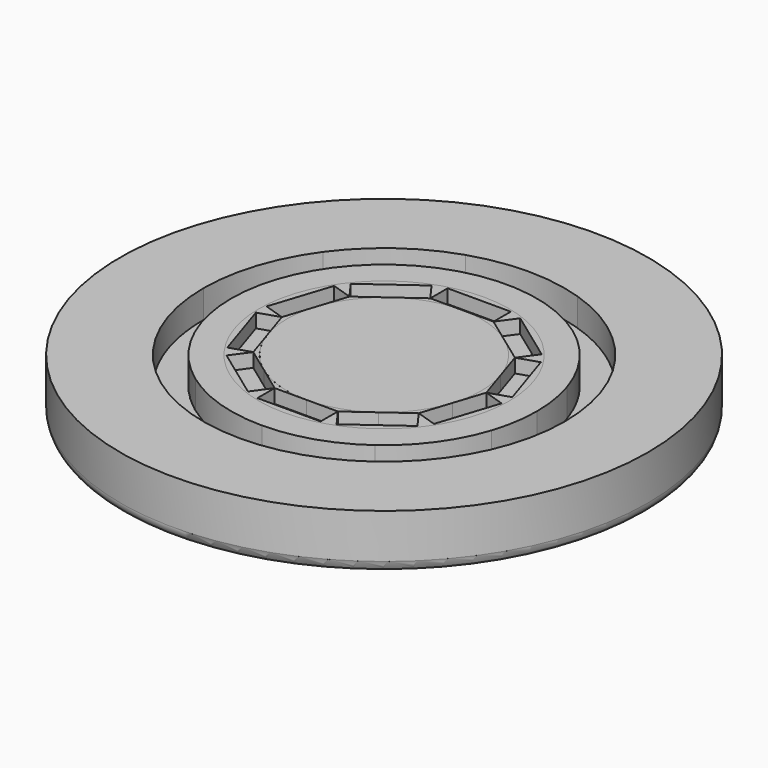
from build123d import *

# Parameters (mm, degrees)
F0_R     = 120.65
F1_DEPTH = 25.4
F2_R     = 82.55
F2_R_2   = 69.85
F3_DEPTH = 12.7
F2_R_3   = 57.15
F2_R_4   = 44.45
F4_DEPTH = 19.05
F5_R     = 5.08
F6_DEPTH = 25.4


with BuildPart() as f1:
    # F0 (on Top) → F1 (new body)
    with BuildSketch(Plane.XY):
        Circle(F0_R)
        with BuildLine():
            ThreePointArc((25.5093528857, -78.5097154202), (0, -82.55), (-25.5093528857, -78.5097154202))
            ThreePointArc((-25.5093528857, -78.5097154202), (-48.5216725767, -66.7843528857), (-66.7843528857, -48.5216725767))
            ThreePointArc((-66.7843528857, -48.5216725767), (-78.5097154202, -25.5093528857), (-82.55, 0))
            ThreePointArc((-82.55, 0), (-78.5097154202, 25.5093528857), (-66.7843528857, 48.5216725767))
            ThreePointArc((-66.7843528857, 48.5216725767), (-48.5216725767, 66.7843528857), (-25.5093528857, 78.5097154202))
            ThreePointArc((-25.5093528857, 78.5097154202), (0, 82.55), (25.5093528857, 78.5097154202))
            ThreePointArc((25.5093528857, 78.5097154202), (48.5216725767, 66.7843528857), (66.7843528857, 48.5216725767))
            ThreePointArc((66.7843528857, 48.5216725767), (78.5097154202, 25.5093528857), (82.55, 0))
            ThreePointArc((82.55, 0), (78.5097154202, -25.5093528857), (66.7843528857, -48.5216725767))
            ThreePointArc((66.7843528857, -48.5216725767), (48.5216725767, -66.7843528857), (25.5093528857, -78.5097154202))
        make_face(mode=Mode.SUBTRACT)
    extrude(amount=F1_DEPTH)

    # F5
    f5_edges = [f1.edges().sort_by_distance(p)[0] for p in [
        (-120.65, 0, 0),
    ]]
    fillet(f5_edges, radius=F5_R)


with BuildPart() as f1b:
    # F0 (on Top) → F1, piece 2 (new body)
    with BuildSketch(Plane.XY):
        with BuildLine():
            ThreePointArc((66.4312976021, -21.5848372453), (68.9900305751, -10.9269474808), (69.85, 0))
            ThreePointArc((69.85, 0), (68.9900306537, 10.9269469846), (66.4312979125, 21.5848362898))
            ThreePointArc((66.4312979125, 21.5848362898), (56.509837448, 41.0567993346), (41.056800296, 56.5098367495))
            ThreePointArc((41.056800296, 56.5098367495), (21.5848373059, 66.4312975824), (0, 69.85))
            ThreePointArc((0, 69.85), (-21.5848369481, 66.4312976986), (-41.0567996872, 56.5098371918))
            ThreePointArc((-41.0567996872, 56.5098371918), (-56.5098370444, 41.0567998901), (-66.4312977207, 21.5848368803))
            ThreePointArc((-66.4312977207, 21.5848368803), (-69.85, -1.919e-07), (-66.4312976021, -21.5848372453))
            ThreePointArc((-66.4312976021, -21.5848372453), (-56.5098371746, -41.0567997109), (-41.0568003562, -56.5098367057))
            ThreePointArc((-41.0568003562, -56.5098367057), (-21.5848373413, -66.4312975709), (0, -69.85))
            ThreePointArc((0, -69.85), (21.5848367731, -66.4312977555), (41.0567993894, -56.5098374082))
            ThreePointArc((41.0567993894, -56.5098374082), (56.5098368234, -41.0568001943), (66.4312976021, -21.5848372453))
        make_face()
        with BuildLine():
            ThreePointArc((17.6603212285, 54.3528799063), (33.5919271685, 46.2353212285), (46.2353212285, 33.5919271685))
            ThreePointArc((46.2353212285, 33.5919271685), (54.3528799063, 17.6603212285), (57.15, 0))
            ThreePointArc((57.15, 0), (54.3528799063, -17.6603212285), (46.2353212285, -33.5919271685))
            ThreePointArc((46.2353212285, -33.5919271685), (33.5919271685, -46.2353212285), (17.6603212285, -54.3528799063))
            ThreePointArc((17.6603212285, -54.3528799063), (0, -57.15), (-17.6603212285, -54.3528799063))
            ThreePointArc((-17.6603212285, -54.3528799063), (-33.5919271685, -46.2353212285), (-46.2353212285, -33.5919271685))
            ThreePointArc((-46.2353212285, -33.5919271685), (-54.3528799063, -17.6603212285), (-57.15, 0))
            ThreePointArc((-57.15, 0), (-54.3528799063, 17.6603212285), (-46.2353212285, 33.5919271685))
            ThreePointArc((-46.2353212285, 33.5919271685), (-33.5919271685, 46.2353212285), (-17.6603212285, 54.3528799063))
            ThreePointArc((-17.6603212285, 54.3528799063), (0, 57.15), (17.6603212285, 54.3528799063))
        make_face(mode=Mode.SUBTRACT)
    extrude(amount=F1_DEPTH)


with BuildPart() as f1c:
    # F0 (on Top) → F1, piece 3 (new body)
    with BuildSketch(Plane.XY):
        with BuildLine():
            ThreePointArc((42.2744623313, -13.7358048399), (43.9027467855, -6.9535116802), (44.45, 0))
            ThreePointArc((44.45, 0), (43.9027467394, 6.9535119712), (42.2744621492, 13.7358054003))
            ThreePointArc((42.2744621492, 13.7358054003), (35.9608053613, 26.1270545177), (26.1270543581, 35.9608054772))
            ThreePointArc((26.1270543581, 35.9608054772), (13.7358053375, 42.2744621696), (0, 44.45))
            ThreePointArc((0, 44.45), (-13.7358054792, 42.2744621236), (-26.1270545992, 35.960805302))
            ThreePointArc((-26.1270545992, 35.960805302), (-35.9608054489, 26.1270543971), (-42.2744621492, 13.7358054003))
            ThreePointArc((-42.2744621492, 13.7358054003), (-44.45, 0), (-42.2744621492, -13.7358054003))
            ThreePointArc((-42.2744621492, -13.7358054003), (-35.9608055571, -26.1270542481), (-26.1270548973, -35.9608050854))
            ThreePointArc((-26.1270548973, -35.9608050854), (-13.7358056544, -42.2744620666), (0, -44.45))
            ThreePointArc((0, -44.45), (13.7358053375, -42.2744621696), (26.1270543581, -35.9608054772))
            ThreePointArc((26.1270543581, -35.9608054772), (35.9608055344, -26.1270542793), (42.2744623313, -13.7358048399))
        make_face()
    extrude(amount=F1_DEPTH)


with BuildPart() as f3:
    # F2 (on Top) → F3 (new body)
    with BuildSketch(Plane.XY):
        Circle(F2_R)
        Circle(F2_R_2, mode=Mode.SUBTRACT)
    extrude(amount=F3_DEPTH)


with BuildPart() as f4:
    # F2 (on Top) → F4 (new body)
    with BuildSketch(Plane.XY):
        Circle(F2_R_3)
        Circle(F2_R_4, mode=Mode.SUBTRACT)
    extrude(amount=F4_DEPTH)


with BuildPart() as f6:
    # F0 (on Top) → F6 (new body)
    with BuildSketch(Plane.XY):
        Polygon((-20.2634472617, 52.4615981374), (-14.4426804976, 44.45), (-14.4426804976, 54.3528799063), (-17.6603212285, 54.3528799063), align=None)
        with BuildLine():
            Line((-14.4426804976, 54.3528799063), (14.4426804976, 54.3528799063))
            Line((14.4426804976, 54.3528799063), (17.6603212285, 54.3528799063))
            ThreePointArc((17.6603212285, 54.3528799063), (0, 57.15), (-17.6603212285, 54.3528799063))
            Line((-17.6603212285, 54.3528799063), (-14.4426804976, 54.3528799063))
        make_face()
        with BuildLine():
            Line((-43.6321951954, 35.4832089374), (-20.2634472617, 52.4615981374))
            Line((-20.2634472617, 52.4615981374), (-17.6603212285, 54.3528799063))
            ThreePointArc((-17.6603212285, 54.3528799063), (-33.5919271685, 46.2353212285), (-46.2353212285, 33.5919271685))
            Line((-46.2353212285, 33.5919271685), (-43.6321951954, 35.4832089374))
        make_face()
        Polygon((14.4426804976, 54.3528799063), (14.4426804976, 44.45), (20.2634472617, 52.4615981374), (17.6603212285, 54.3528799063), align=None)
        with BuildLine():
            Line((20.2634472617, 52.4615981374), (43.6321951954, 35.4832089374))
            Line((43.6321951954, 35.4832089374), (46.2353212285, 33.5919271685))
            ThreePointArc((46.2353212285, 33.5919271685), (33.5919271685, 46.2353212285), (17.6603212285, 54.3528799063))
            Line((17.6603212285, 54.3528799063), (20.2634472617, 52.4615981374))
        make_face()
        Polygon((43.6321951954, 35.4832089374), (37.8114284312, 27.4716107999), (47.2296268962, 30.5317689842), (46.2353212285, 33.5919271685), align=None)
        with BuildLine():
            Line((46.2353212285, 33.5919271685), (47.2296268962, 30.5317689842))
            Line((47.2296268962, 30.5317689842), (56.1556943323, 3.0601581843))
            Line((56.1556943323, 3.0601581843), (57.15, 0))
            ThreePointArc((57.15, 0), (54.3528799063, 17.6603212285), (46.2353212285, 33.5919271685))
        make_face()
        Polygon((56.1556943323, 3.0601581843), (46.7374958674, 0), (56.1556943323, -3.0601581843), (57.15, 0), align=None)
        with BuildLine():
            Line((57.15, 0), (56.1556943323, -3.0601581843))
            Line((56.1556943323, -3.0601581843), (47.2296268962, -30.5317689842))
            Line((47.2296268962, -30.5317689842), (46.2353212285, -33.5919271685))
            ThreePointArc((46.2353212285, -33.5919271685), (54.3528799063, -17.6603212285), (57.15, 0))
        make_face()
        Polygon((47.2296268962, -30.5317689842), (37.8114284312, -27.4716107999), (43.6321951954, -35.4832089374), (46.2353212285, -33.5919271685), align=None)
        with BuildLine():
            Line((46.2353212285, -33.5919271685), (43.6321951954, -35.4832089374))
            Line((43.6321951954, -35.4832089374), (20.2634472617, -52.4615981374))
            Line((20.2634472617, -52.4615981374), (17.6603212285, -54.3528799063))
            ThreePointArc((17.6603212285, -54.3528799063), (33.5919271685, -46.2353212285), (46.2353212285, -33.5919271685))
        make_face()
        with BuildLine():
            Line((17.6603212285, -54.3528799063), (14.4426804976, -54.3528799063))
            Line((14.4426804976, -54.3528799063), (-14.4426804976, -54.3528799063))
            Line((-14.4426804976, -54.3528799063), (-17.6603212285, -54.3528799063))
            ThreePointArc((-17.6603212285, -54.3528799063), (0, -57.15), (17.6603212285, -54.3528799063))
        make_face()
        Polygon((20.2634472617, -52.4615981374), (14.4426804976, -44.45), (14.4426804976, -54.3528799063), (17.6603212285, -54.3528799063), align=None)
        Polygon((-14.4426804976, -54.3528799063), (-14.4426804976, -44.45), (-20.2634472617, -52.4615981374), (-17.6603212285, -54.3528799063), align=None)
        with BuildLine():
            Line((-17.6603212285, -54.3528799063), (-20.2634472617, -52.4615981374))
            Line((-20.2634472617, -52.4615981374), (-43.6321951954, -35.4832089374))
            Line((-43.6321951954, -35.4832089374), (-46.2353212285, -33.5919271685))
            ThreePointArc((-46.2353212285, -33.5919271685), (-33.5919271685, -46.2353212285), (-17.6603212285, -54.3528799063))
        make_face()
        Polygon((-43.6321951954, -35.4832089374), (-37.8114284312, -27.4716107999), (-47.2296268962, -30.5317689842), (-46.2353212285, -33.5919271685), align=None)
        with BuildLine():
            Line((-46.2353212285, -33.5919271685), (-47.2296268962, -30.5317689842))
            Line((-47.2296268962, -30.5317689842), (-56.1556943323, -3.0601581843))
            Line((-56.1556943323, -3.0601581843), (-57.15, 0))
            ThreePointArc((-57.15, 0), (-54.3528799063, -17.6603212285), (-46.2353212285, -33.5919271685))
        make_face()
        Polygon((-56.1556943323, -3.0601581843), (-46.7374958674, 0), (-56.1556943323, 3.0601581843), (-57.15, 0), align=None)
        with BuildLine():
            Line((-56.1556943323, 3.0601581843), (-47.2296268962, 30.5317689842))
            Line((-47.2296268962, 30.5317689842), (-46.2353212285, 33.5919271685))
            ThreePointArc((-46.2353212285, 33.5919271685), (-54.3528799063, 17.6603212285), (-57.15, 0))
            Line((-57.15, 0), (-56.1556943323, 3.0601581843))
        make_face()
        Polygon((-47.2296268962, 30.5317689842), (-37.8114284312, 27.4716107999), (-43.6321951954, 35.4832089374), (-46.2353212285, 33.5919271685), align=None)
    extrude(amount=F6_DEPTH)


with BuildPart() as f6b:
    # F0 (on Top) → F6, piece 2 (new body)
    with BuildSketch(Plane.XY):
        with BuildLine():
            ThreePointArc((-26.1270545992, 35.960805302), (-13.7358054792, 42.2744621236), (0, 44.45))
            Line((0, 44.45), (-14.4426804976, 44.45))
            Line((-14.4426804976, 44.45), (-26.1270545992, 35.960805302))
        make_face()
    extrude(amount=F6_DEPTH)


with BuildPart() as f6c:
    # F0 (on Top) → F6, piece 3 (new body)
    with BuildSketch(Plane.XY):
        with BuildLine():
            ThreePointArc((0, 44.45), (13.7358053375, 42.2744621696), (26.1270543581, 35.9608054772))
            Line((26.1270543581, 35.9608054772), (14.4426804976, 44.45))
            Line((14.4426804976, 44.45), (0, 44.45))
        make_face()
    extrude(amount=F6_DEPTH)


with BuildPart() as f6d:
    # F0 (on Top) → F6, piece 4 (new body)
    with BuildSketch(Plane.XY):
        with BuildLine():
            ThreePointArc((26.1270543581, 35.9608054772), (35.9608053613, 26.1270545177), (42.2744621492, 13.7358054003))
            Line((42.2744621492, 13.7358054003), (37.8114284312, 27.4716107999))
            Line((37.8114284312, 27.4716107999), (26.1270543581, 35.9608054772))
        make_face()
    extrude(amount=F6_DEPTH)


with BuildPart() as f6e:
    # F0 (on Top) → F6, piece 5 (new body)
    with BuildSketch(Plane.XY):
        with BuildLine():
            ThreePointArc((42.2744621492, 13.7358054003), (43.9027467394, 6.9535119712), (44.45, 0))
            ThreePointArc((44.45, 0), (43.9027467855, -6.9535116802), (42.2744623313, -13.7358048399))
            Line((42.2744623313, -13.7358048399), (46.7374958674, 0))
            Line((46.7374958674, 0), (42.2744621492, 13.7358054003))
        make_face()
    extrude(amount=F6_DEPTH)


with BuildPart() as f6f:
    # F0 (on Top) → F6, piece 6 (new body)
    with BuildSketch(Plane.XY):
        with BuildLine():
            Line((37.8114284312, -27.4716107999), (42.2744623313, -13.7358048399))
            ThreePointArc((42.2744623313, -13.7358048399), (35.9608055344, -26.1270542793), (26.1270543581, -35.9608054772))
            Line((26.1270543581, -35.9608054772), (37.8114284312, -27.4716107999))
        make_face()
    extrude(amount=F6_DEPTH)


with BuildPart() as f6g:
    # F0 (on Top) → F6, piece 7 (new body)
    with BuildSketch(Plane.XY):
        with BuildLine():
            Line((14.4426804976, -44.45), (26.1270543581, -35.9608054772))
            ThreePointArc((26.1270543581, -35.9608054772), (13.7358053375, -42.2744621696), (0, -44.45))
            Line((0, -44.45), (14.4426804976, -44.45))
        make_face()
    extrude(amount=F6_DEPTH)


with BuildPart() as f6h:
    # F0 (on Top) → F6, piece 8 (new body)
    with BuildSketch(Plane.XY):
        with BuildLine():
            Line((-14.4426804976, -44.45), (0, -44.45))
            ThreePointArc((0, -44.45), (-13.7358056544, -42.2744620666), (-26.1270548973, -35.9608050854))
            Line((-26.1270548973, -35.9608050854), (-14.4426804976, -44.45))
        make_face()
    extrude(amount=F6_DEPTH)


with BuildPart() as f6i:
    # F0 (on Top) → F6, piece 9 (new body)
    with BuildSketch(Plane.XY):
        with BuildLine():
            Line((-37.8114284312, -27.4716107999), (-26.1270548973, -35.9608050854))
            ThreePointArc((-26.1270548973, -35.9608050854), (-35.9608055571, -26.1270542481), (-42.2744621492, -13.7358054003))
            Line((-42.2744621492, -13.7358054003), (-37.8114284312, -27.4716107999))
        make_face()
    extrude(amount=F6_DEPTH)


with BuildPart() as f6j:
    # F0 (on Top) → F6, piece 10 (new body)
    with BuildSketch(Plane.XY):
        with BuildLine():
            ThreePointArc((-42.2744621492, -13.7358054003), (-44.45, 0), (-42.2744621492, 13.7358054003))
            Line((-42.2744621492, 13.7358054003), (-46.7374958674, 0))
            Line((-46.7374958674, 0), (-42.2744621492, -13.7358054003))
        make_face()
    extrude(amount=F6_DEPTH)


with BuildPart() as f6k:
    # F0 (on Top) → F6, piece 11 (new body)
    with BuildSketch(Plane.XY):
        with BuildLine():
            ThreePointArc((-42.2744621492, 13.7358054003), (-35.9608054489, 26.1270543971), (-26.1270545992, 35.960805302))
            Line((-26.1270545992, 35.960805302), (-37.8114284312, 27.4716107999))
            Line((-37.8114284312, 27.4716107999), (-42.2744621492, 13.7358054003))
        make_face()
    extrude(amount=F6_DEPTH)


solid = Compound([f1.part, f1b.part, f1c.part, f3.part, f4.part, f6.part, f6b.part, f6c.part, f6d.part, f6e.part, f6f.part, f6g.part, f6h.part, f6i.part, f6j.part, f6k.part])
